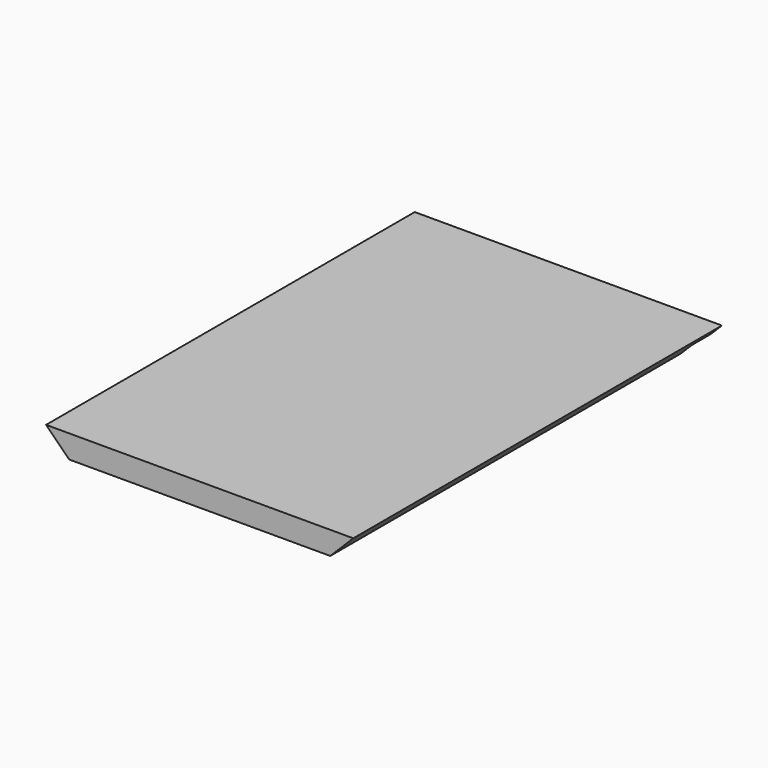
from build123d import *

# Parameters (mm, degrees)
F6_DEPTH = 300
F7_W     = 200
F7_H     = 12.5
F8_DEPTH = 15


with BuildPart() as f6:
    # F5 (on offset) → F6 (new body, through all)
    with BuildSketch(Plane.XZ.offset(150)):
        Polygon((100, 300), (-100, 300), (-85, 285), (85, 285), align=None)
    extrude(amount=-F6_DEPTH)

    # F7 (on offset) → F8 (cut)
    with BuildSketch(Plane.XZ.offset(-150)):
        with Locations((0, 286.25)):
            Rectangle(F7_W, F7_H)
    extrude(amount=F8_DEPTH, mode=Mode.SUBTRACT)


solid = f6.part
